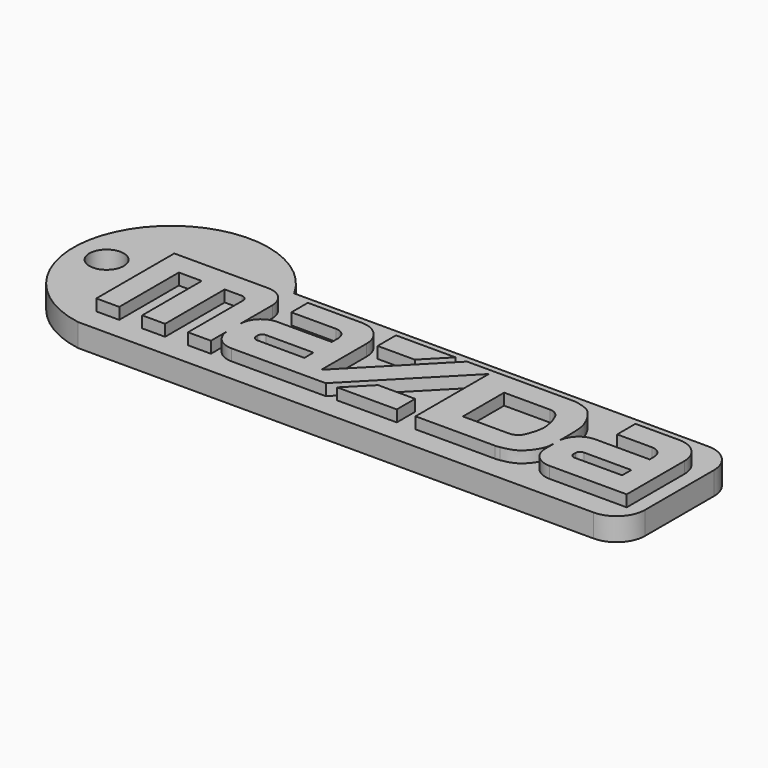
from build123d import *

# Parameters (mm, degrees)
F0_R     = 3.81
F1_DEPTH = 5.08
F3_DEPTH = 2.54


with BuildPart() as f1:
    # F0 (on Top) → F1 (new body)
    with BuildSketch(Plane.XY):
        with BuildLine():
            Line((-60.325, -15.875), (53.975, -15.875))
            ThreePointArc((53.975, -15.875), (58.4651280605, -14.0151280605), (60.325, -9.525))
            Line((60.325, -9.525), (60.325, 9.525))
            ThreePointArc((60.325, 9.525), (58.4651280605, 14.0151280605), (53.975, 15.875))
            Line((53.975, 15.875), (-37.8134731769, 15.875))
            Line((-37.8134731769, 15.875), (-60.325, 15.875))
            Line((-60.325, 15.875), (-60.325, -15.875))
        make_face()
        with BuildLine():
            ThreePointArc((-37.8134731769, 15.875), (-74.4177446928, 17.9727124446), (-60.325, -15.875))
            Line((-60.325, -15.875), (-60.325, 15.875))
            Line((-60.325, 15.875), (-37.8134731769, 15.875))
        make_face()
        with Locations((-71.0623143972, 5.4617850045)):
            Circle(F0_R, mode=Mode.SUBTRACT)
    extrude(amount=F1_DEPTH)

    # F2 (on face) → F3 (join)
    with BuildSketch(Plane.XY.offset(5.08)):
        with BuildLine():
            Line((-55.2302619128, 10.795), (-60.325, 10.795))
            Line((-60.325, 10.795), (-60.325, -10.795))
            Line((-60.325, -10.795), (-55.245, -10.795))
            Line((-55.245, -10.795), (-55.245, 5.715))
            Line((-55.245, 5.715), (-50.165, 5.715))
            Line((-50.165, 5.715), (-50.165, -10.795))
            Line((-50.165, -10.795), (-45.085, -10.795))
            Line((-45.085, -10.795), (-45.085, 5.715))
            Line((-45.085, 5.715), (-41.275, 5.715))
            ThreePointArc((-41.275, 5.715), (-40.3769743879, 5.3430256121), (-40.005, 4.445))
            Line((-40.005, 4.445), (-40.005, -10.795))
            Line((-40.005, -10.795), (-34.925, -10.795))
            Line((-34.925, -10.795), (-34.925, -6.223))
            Line((-34.925, -6.223), (-34.925, -2.667))
            Line((-34.925, -2.667), (-34.925, 6.223))
            ThreePointArc((-34.925, 6.223), (-36.2641077964, 9.4558922036), (-39.497, 10.795))
            Line((-39.497, 10.795), (-55.2302619128, 10.795))
        make_face()
        with BuildLine():
            ThreePointArc((-30.353, 1.905), (-33.5858922036, 0.5658922036), (-34.925, -2.667))
            Line((-34.925, -2.667), (-34.925, -6.223))
            ThreePointArc((-34.925, -6.223), (-33.5858922036, -9.4558922036), (-30.353, -10.795))
            Line((-30.353, -10.795), (-13.208, -10.795))
            Line((-13.208, -10.795), (-13.208, -7.3516365111))
            Line((-13.208, -7.3516365111), (-13.208, 5.207))
            ThreePointArc((-13.208, 5.207), (-14.8446873067, 9.1583126933), (-18.796, 10.795))
            Line((-18.796, 10.795), (-30.7090226255, 10.795))
            Line((-30.7090226255, 10.795), (-30.7090226255, 6.223))
            Line((-30.7090226255, 6.223), (-20.828, 6.223))
            ThreePointArc((-20.828, 6.223), (-19.0319487758, 5.4790512242), (-18.288, 3.683))
            Line((-18.288, 3.683), (-18.288, 1.905))
            Line((-18.288, 1.905), (-30.353, 1.905))
        make_face()
        with BuildLine():
            ThreePointArc((-28.834547457, -5.6574139856), (-29.5493791419, -5.3578856134), (-29.845, -4.6414291305))
            Line((-29.845, -4.6414291305), (-29.845, -4.191))
            ThreePointArc((-29.845, -4.191), (-29.5474204897, -3.4725795103), (-28.829, -3.175))
            Line((-28.829, -3.175), (-18.288, -3.175))
            Line((-18.288, -3.175), (-18.288, -5.715))
            Line((-18.288, -5.715), (-28.834547457, -5.6574139856))
        make_face(mode=Mode.SUBTRACT)
        Polygon((-13.208, -7.3516365111), (-13.208, -10.795), (-9.4697934187, -10.795), (10.4281250387, 9.5132279851), (11.684, 10.795), (4.572, 10.795), align=None)
        with BuildLine():
            Line((11.684, 10.795), (10.4281250387, 9.5132279851))
            Line((10.4281250387, 9.5132279851), (10.4281250387, -10.795))
            Line((10.4281250387, -10.795), (11.684, -10.795))
            Line((11.684, -10.795), (28.078978887, -10.795))
            ThreePointArc((28.078978887, -10.795), (28.5957282879, -10.7686491822), (29.107116756, -10.6898701011))
            add(Edge.make_bspline(
                [(35.5372950435, -3.4511573613), (35.5250543244, -4.4661306449), (35.4891126843, -6.1377135055), (32.635648268, -10.1114027049), (29.9885608199, -10.5077053404), (29.107116756, -10.6898701011)],
                knots=[0.5939858484, 0.5939858484, 0.5939858484, 0.5939858484, 0.7105364175, 0.864635629, 0.978892706, 0.978892706, 0.978892706, 0.978892706], degree=3))
            Line((35.5372950435, -3.4511573613), (35.5372950435, -2.667))
            ThreePointArc((35.5372950435, -2.667), (35.5399098941, -2.512392897), (35.5477514548, -2.357962642))
            add(Edge.make_bspline(
                [(29.1883741966, 10.6813906829), (31.5964348364, 10.1488972227), (32.9847348448, 9.0372084423), (35.3473079701, 5.2056335604), (35.5537470863, 1.8236524058), (35.5559992426, -1.172556692), (35.5477514548, -2.357962642)],
                knots=[0.0105029487, 0.0105029487, 0.0105029487, 0.0105029487, 0.1576260779, 0.2979024518, 0.437582628, 0.5553822916, 0.5553822916, 0.5553822916, 0.5553822916], degree=3))
            ThreePointArc((29.1883741966, 10.6813906829), (28.518143702, 10.7832706341), (27.8403156543, 10.795))
            Line((27.8403156543, 10.795), (11.684, 10.795))
        make_face()
        with BuildLine():
            Line((27.1152709564, -5.715), (16.8622714295, -5.715))
            Line((16.8622714295, -5.715), (16.8622714295, 5.715))
            Line((16.8622714295, 5.715), (27.0222714295, 5.715))
            ThreePointArc((27.0222714295, 5.715), (28.3907110889, 5.3148534759), (29.3279882498, 4.2404904712))
            add(Edge.make_bspline(
                [(29.3279882498, 4.2404904712), (29.5322218703, 3.7985297904), (29.996949748, 2.7568174276), (30.1980545584, 1.7073743386), (30.6864836685, -0.4549893431), (29.9611913367, -2.9197379799), (29.5225347313, -4.0063798282), (29.4492436994, -4.177083447)],
                knots=[0.1184445178, 0.1184445178, 0.1184445178, 0.1184445178, 0.2235550269, 0.3756131932, 0.564595644, 0.8021758999, 0.8487485979, 0.8487485979, 0.8487485979, 0.8487485979], degree=3))
            ThreePointArc((29.4492436994, -4.177083447), (28.5128238256, -5.2959540253), (27.1152709564, -5.715))
        make_face(mode=Mode.SUBTRACT)
        with BuildLine():
            ThreePointArc((40.1092950435, 1.905), (36.9875755494, 0.6733669559), (35.5477514548, -2.357962642))
            add(Edge.make_bspline(
                [(35.5477514548, -2.357962642), (35.5450486122, -2.7464262804), (35.5413493806, -3.1149807203), (35.5372950435, -3.4511573613)],
                knots=[0.5553822916, 0.5553822916, 0.5553822916, 0.5553822916, 0.5939858484, 0.5939858484, 0.5939858484, 0.5939858484], degree=3))
            Line((35.5372950435, -3.4511573613), (35.5372950435, -6.223))
            ThreePointArc((35.5372950435, -6.223), (36.8764028399, -9.4558922036), (40.1092950435, -10.795))
            Line((40.1092950435, -10.795), (57.2480400174, -10.795))
            Line((57.2480400174, -10.795), (57.2480400174, 5.207))
            ThreePointArc((57.2480400174, 5.207), (55.6113527107, 9.1583126933), (51.6600400174, 10.795))
            Line((51.6600400174, 10.795), (46.4887204891, 10.795))
            Line((46.4887204891, 10.795), (41.9167204891, 10.795))
            Line((41.9167204891, 10.795), (41.9167204891, 6.223))
            Line((41.9167204891, 6.223), (41.9167204891, 5.715))
            Line((41.9167204891, 5.715), (49.6280400174, 5.715))
            ThreePointArc((49.6280400174, 5.715), (51.4240912417, 4.9710512242), (52.1680400174, 3.175))
            Line((52.1680400174, 3.175), (52.1680400174, 1.905))
            Line((52.1680400174, 1.905), (40.1092950435, 1.905))
        make_face()
        with BuildLine():
            ThreePointArc((40.622984476, -4.191), (40.9205639863, -3.4725795103), (41.638984476, -3.175))
            Line((41.638984476, -3.175), (52.1680400174, -3.175))
            Line((52.1680400174, -3.175), (52.1680400174, -5.715))
            Line((52.1680400174, -5.715), (41.6332798985, -5.715))
            ThreePointArc((41.6332798985, -5.715), (40.9168234157, -5.4193791419), (40.6172950435, -4.704547457))
            Line((40.6172950435, -4.704547457), (40.622984476, -4.191))
        make_face(mode=Mode.SUBTRACT)
        with BuildLine():
            add(Edge.make_bspline(
                [(35.5477514548, -2.357962642), (35.5450486122, -2.7464262804), (35.5413493806, -3.1149807203), (35.5372950435, -3.4511573613)],
                knots=[0.5553822916, 0.5553822916, 0.5553822916, 0.5553822916, 0.5939858484, 0.5939858484, 0.5939858484, 0.5939858484], degree=3))
            ThreePointArc((35.5477514548, -2.357962642), (35.5399098941, -2.512392897), (35.5372950435, -2.667))
            Line((35.5372950435, -2.667), (35.5372950435, -3.4511573613))
        make_face()
        Polygon((-2.9453631573, 5.715), (2.032, 10.795), (-11.176, 10.795), (-11.176, 5.715), align=None)
        Polygon((-1.9524302613, -5.715), (-6.9297934187, -10.795), (6.2782065813, -10.795), (6.2782065813, -5.715), align=None)
    extrude(amount=F3_DEPTH)


solid = f1.part
